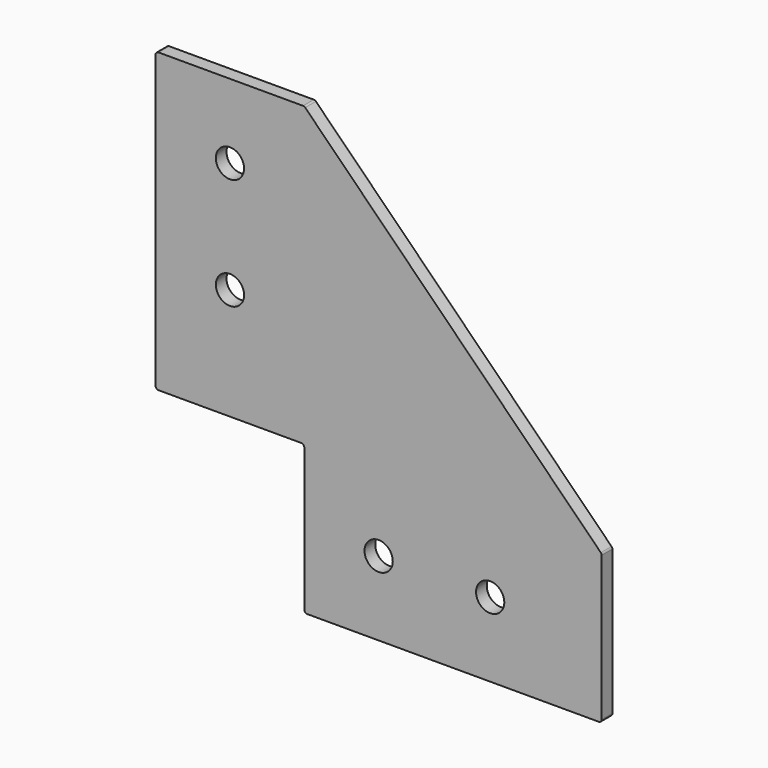
from build123d import *

# Parameters (mm, degrees)
F1_DEPTH = 2.286
F2_R     = 2.413
F3_DEPTH = 2.286
F4_R     = 0.508


with BuildPart() as f1:
    # F0 (on Front) → F1 (new body)
    with BuildSketch(Plane.XZ):
        Polygon((-14.859182, 44.231349), (-40.259182, 44.231349), (-40.259182, -6.568651), (-14.859182, -6.568651), (-14.859182, -31.968651), (35.940818, -31.968651), (35.940818, -6.568651), align=None)
    extrude(amount=F1_DEPTH)

    # F2 (on face) → F3 (cut)
    with BuildSketch(Plane.XZ.offset(2.286)):
        with Locations((-27.559182, 31.531349)):
            Circle(F2_R)
        with Locations((-27.559182, 12.481349)):
            Circle(F2_R)
        with Locations((-2.159182, -19.268651)):
            Circle(F2_R)
        with Locations((16.890818, -19.268651)):
            Circle(F2_R)
    extrude(amount=-F3_DEPTH, mode=Mode.SUBTRACT)

    # F4
    f4_edges = [f1.edges().sort_by_distance(p)[0] for p in [
        (-40.259182, -1.143, 44.231349),
        (-40.259182, -1.143, -6.568651),
        (-14.859182, -1.143, -31.968651),
        (-14.859182, -1.143, -6.568651),
        (35.940818, -1.143, -31.968651),
        (35.940818, -1.143, -6.568651),
        (-14.859182, -1.143, 44.231349),
    ]]
    fillet(f4_edges, radius=F4_R)


solid = f1.part
